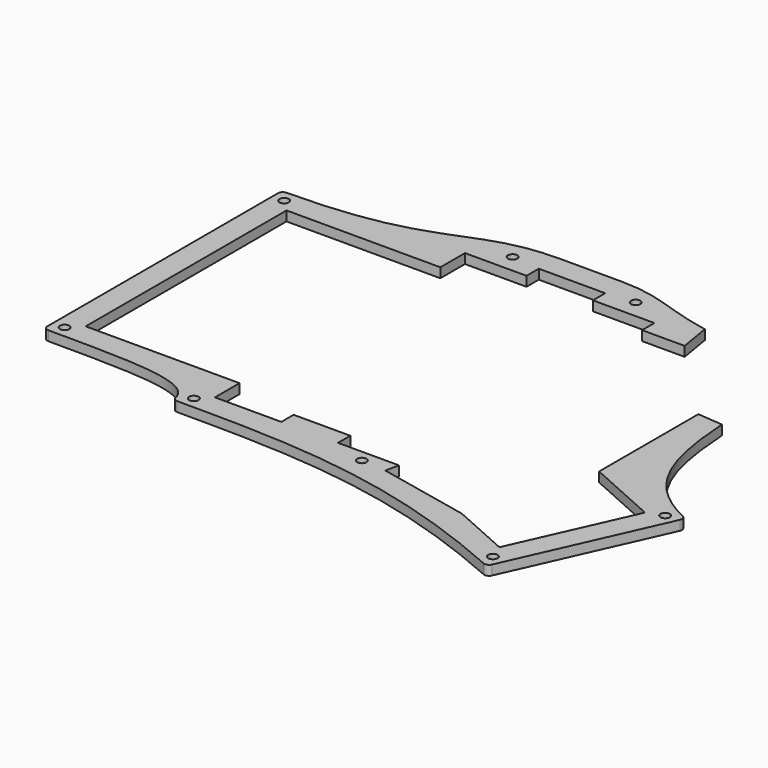
from build123d import *

# Parameters (mm, degrees)
PAD005_DEPTH    = 3
POCKET008_DEPTH = 5
SKETCH040_R     = 1.45
POCKET020_DEPTH = 15
POCKET026_DEPTH = 14
FILLET003_R     = 1.5


with BuildPart() as part:
    # Sketch024 → Pad005 (new body)
    with BuildSketch(Plane.XY):
        with BuildLine():
            Line((85.725, 98.4875), (66.675, 98.4875))
            add(Edge.make_bspline(
                [(-8, 84.2), (39.625, 84.2), (39.625, 98.4875), (66.675, 98.4875)],
                knots=[0, 0, 0, 0, 1, 1, 1, 1], degree=3))
            Line((-8, 84.2), (-8, -8))
            add(Edge.make_bspline(
                [(39.625, -17.525), (39.625, -8), (20.575, -8), (-8, -8)],
                knots=[0, 0, 0, 0, 1, 1, 1, 1], degree=3))
            add(Edge.make_bspline(
                [(153.231854, -38.154949), (107.082107, -17.525), (76.2, -17.525), (39.625, -17.525)],
                knots=[0, 0, 0, 0, 1, 1, 1, 1], degree=3))
            Line((153.231854, -38.154949), (175.310198, 11.234895))
            add(Edge.make_bspline(
                [(150.875, 88.9625), (150.875, 42.8625), (150.875, 22.157965), (175.310198, 11.234895)],
                knots=[0, 0, 0, 0, 1, 1, 1, 1], degree=3))
            add(Edge.make_bspline(
                [(85.725, 98.4875), (104.775, 98.4875), (104.775, 88.9625), (150.875, 88.9625)],
                knots=[0, 0, 0, 0, 1, 1, 1, 1], degree=3))
        make_face()
    extrude(amount=PAD005_DEPTH)

    # Sketch025 → Pocket008 (cut)
    with BuildSketch(Plane(origin=(0, 0, 0), x_dir=(1, 0, 0), z_dir=(0, 0, -1))):
        Polygon((-0.75, 0.75), (-0.75, -76.95), (46.875, -76.95), (46.875, -86.475), (65.925, -86.475), (65.925, -91.2375), (86.475, -91.2375), (86.475, -86.475), (105.525, -86.475), (105.525, -81.7125), (143.625, -81.7125), (143.625, -17.457464), (165.732668, -7.574851), (149.57181, 28.577419), (131.568158, 20.529392), (102.96164, 14.448889), (103.848827, 10.275), (84.975, 10.275), (84.975, 5.5125), (67.425, 5.5125), (67.425, 10.275), (46.875, 10.275), (46.875, 0.75), align=None)
    extrude(amount=-POCKET008_DEPTH, mode=Mode.SUBTRACT)

    # Sketch040 → Pocket020 (cut)
    with BuildSketch(Plane.XY):
        with Locations((-4.375, -4.375)):
            Circle(SKETCH040_R)
        with Locations((-4.375, 80.575)):
            Circle(SKETCH040_R)
        with Locations((151.401832, -33.366184)):
            Circle(SKETCH040_R)
        with Locations((170.521433, 9.404873)):
            Circle(SKETCH040_R)
        with Locations((147.25, 85.3375)):
            Circle(SKETCH040_R)
        with Locations((43.25, -13.9)):
            Circle(SKETCH040_R)
        with Locations((57.15, 92.085)):
            Circle(SKETCH040_R)
        with Locations((95.25, 92.085)):
            Circle(SKETCH040_R)
        with Locations((95.25, -13.9)):
            Circle(SKETCH040_R)
    extrude(amount=POCKET020_DEPTH, mode=Mode.SUBTRACT)

    # Sketch054 → Pocket026 (cut)
    with BuildSketch(Plane.XY):
        Polygon((118.825, 80.9625), (116.825, 92.9625), (166.907578, 98.346489), (154.875, 54.9125), (142.875, 55.9125), align=None)
    extrude(amount=POCKET026_DEPTH, mode=Mode.SUBTRACT)

    # Fillet003
    fillet003_edges = [part.edges().sort_by_distance(p)[0] for p in [
        (-8, -8, 1.5),
        (-8, 84.2, 1.5),
        (175.310198, 11.234895, 1.5),
        (153.231854, -38.154949, 1.5),
        (39.625, -17.525, 1.5),
    ]]
    fillet(fillet003_edges, radius=FILLET003_R)


with BuildPart() as part_1:
    # Body004 placement: moved
    add(part.part.moved(Location((0, 0, -3))))


solid = part_1.part
